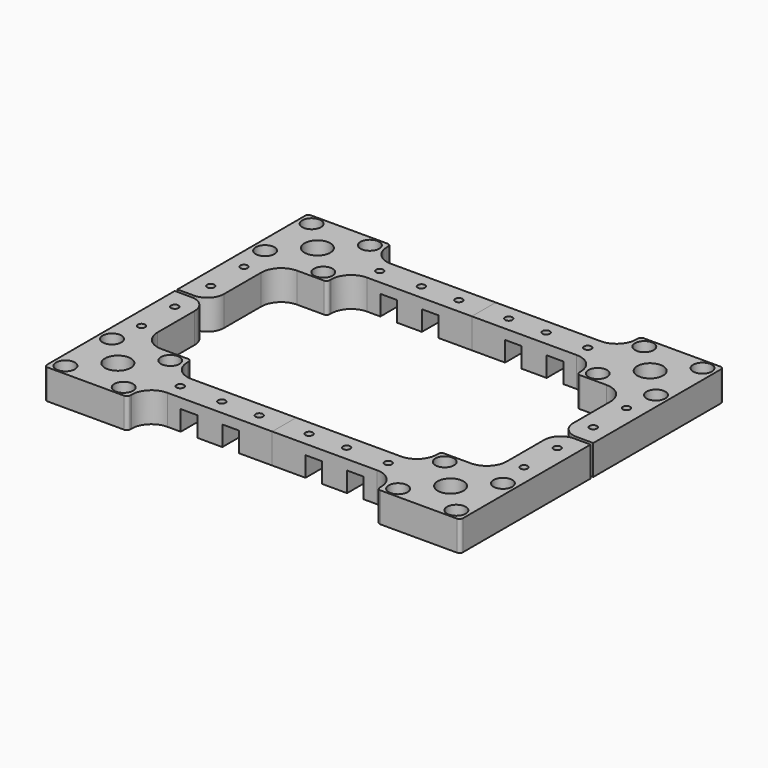
from build123d import *

# Parameters (mm, degrees)
F1_DEPTH       = 18
F3_D           = 6.6
F3_CBORE_D     = 11.25
F3_CBORE_DEPTH = 6
F5_D           = 4.4
F5_CBORE_D     = 8.25
F5_CBORE_DEPTH = 4
F6_D           = 15.5
F7_R           = 12
F8_R           = 10
F9_R           = 2
F10_R          = 2
F11_W          = 10
F11_H          = 12
F12_DEPTH      = 83.001


with BuildPart() as f1:
    # F0 (on Top) → F1 (new body)
    with BuildSketch(Plane.XY):
        Polygon((-125, 24), (-125, 0), (-125, -24), (-75, -24), (-75, -9), (0, -9), (0, 0), (0, 9), (-75, 9), (-75, 24), (-105, 24), (-105, 74), (-125, 74), align=None)
    extrude(amount=F1_DEPTH)

    # F3 (through all)
    with Locations(Plane.XY.offset(18)):
        with Locations((-117.5, 17.5), (-82.5, 17.5), (-82.5, -17.5), (-117.5, -17.5)):
            CounterBoreHole(F3_D / 2, F3_CBORE_D / 2, F3_CBORE_DEPTH)

    # F5 (through all)
    with Locations(Plane(origin=(0, 0, 0), x_dir=(1, 0, 0), z_dir=(0, 0, -1))):
        with Locations((-62.5, 0), (-37.5, 0), (-15, 0), (-115, -36.5), (-115, -61.5)):
            CounterBoreHole(F5_D / 2, F5_CBORE_D / 2, F5_CBORE_DEPTH)

    # F6 (through all)
    with Locations(Plane.XY.offset(18)):
        with Locations((-100, 0)):
            Hole(F6_D / 2)

    # F7
    f7_edges = [f1.edges().sort_by_distance(p)[0] for p in [
        (-105, 24, 9),
        (-75, -9, 9),
        (-75, 9, 9),
    ]]
    fillet(f7_edges, radius=F7_R)

    # F8
    f8_edges = [f1.edges().sort_by_distance(p)[0] for p in [
        (-105, 74, 9),
    ]]
    fillet(f8_edges, radius=F8_R)

    # F9
    f9_edges = [f1.edges().sort_by_distance(p)[0] for p in [
        (-75, 24, 9),
    ]]
    fillet(f9_edges, radius=F9_R)

    # F10
    f10_edges = [f1.edges().sort_by_distance(p)[0] for p in [
        (-75, -24, 9),
        (-125, -24, 9),
    ]]
    fillet(f10_edges, radius=F10_R)

    # F11 (on face) → F12 (cut, through all)
    with BuildSketch(Plane.XZ.offset(9)):
        with Locations((-50, 6)):
            Rectangle(F11_W, F11_H)
        with Locations((-25, 6)):
            Rectangle(F11_W, F11_H)
    extrude(amount=-F12_DEPTH, mode=Mode.SUBTRACT)


with BuildPart() as f13_1:
    # F13: instance of F1
    add(f1.part.mirror(Plane.YZ))


with BuildPart() as f14_1:
    # F14: instance of F1
    add(f1.part.mirror(Plane.XZ))


with BuildPart() as f15_1:
    # F15: instance of F13_1
    add(f13_1.part.mirror(Plane.XZ))


with BuildPart() as f13_1_1:
    # F16: moved
    add(f13_1.part.moved(Location((0, -150, 0))))


with BuildPart() as f1_1:
    # F17: moved
    add(f1.part.moved(Location((0, -150, 0))))


solid = Compound([f14_1.part, f15_1.part, f13_1_1.part, f1_1.part])
